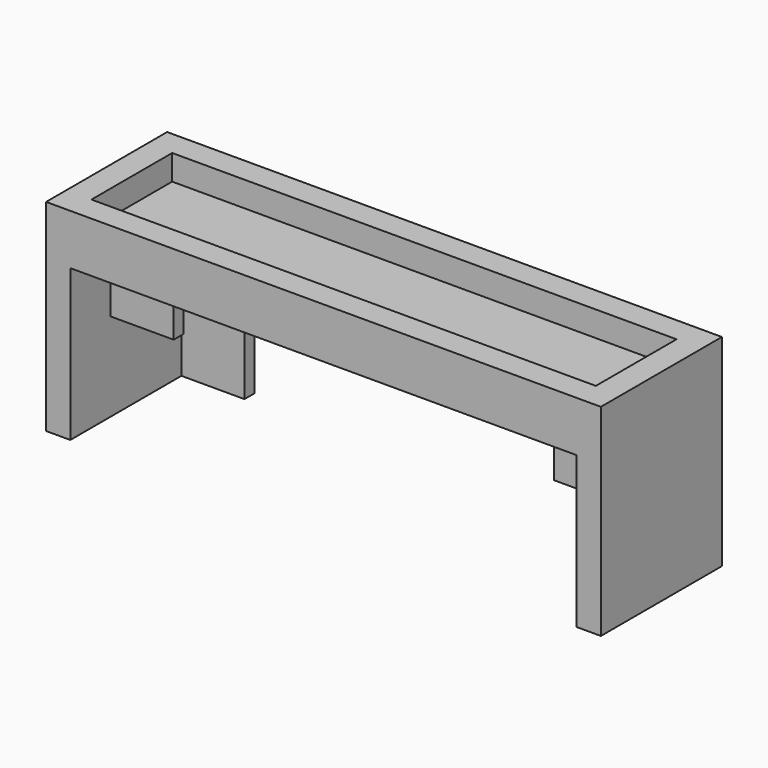
from build123d import *

# Parameters (mm, degrees)
F0_W     = 139.7
F0_H     = 38.1
F1_DEPTH = 6.35
F2_W     = 15.875
F2_H     = 3.1242
F3_DEPTH = 38.1
F4_DEPTH = 15.875
F5_DEPTH = 15.875
F6_W     = 139.7
F6_H     = 38.1
F6_W_2   = 127
F6_H_2   = 25.4
F7_DEPTH = 6.35
F8_R     = 1.5875
F9_DEPTH = 25.4


with BuildPart() as f1:
    # F0 (on Top) → F1 (new body)
    with BuildSketch(Plane.XY):
        with Locations((69.85, 19.05)):
            Rectangle(F0_W, F0_H)
    extrude(amount=F1_DEPTH)

    # F2 (on face) → F3 (join)
    with BuildSketch(Plane(origin=(0, 0, 0), x_dir=(1, 0, 0), z_dir=(0, 0, -1))):
        with Locations((14.0335, -36.5379)):
            Rectangle(F2_W, F2_H)
        Polygon((6.096, 0), (0, 0), (0, -38.1), (6.096, -38.1), (6.096, -34.9758), (6.096, -15.8242), (6.096, -12.7), (6.096, -3.1242), align=None)
        with Locations((125.6665, -36.5379)):
            Rectangle(F2_W, F2_H)
        Polygon((139.7, 0), (133.604, 0), (133.604, -12.7), (133.604, -15.8242), (133.604, -34.9758), (133.604, -38.1), (139.7, -38.1), align=None)
    extrude(amount=F3_DEPTH)

    # F2 (on face) → F4 (join)
    with BuildSketch(Plane(origin=(0, 0, 0), x_dir=(1, 0, 0), z_dir=(0, 0, -1))):
        with Locations((14.0335, -14.2621)):
            Rectangle(F2_W, F2_H)
    extrude(amount=F4_DEPTH)

    # F2 (on face) → F5 (join)
    with BuildSketch(Plane(origin=(0, 0, 0), x_dir=(1, 0, 0), z_dir=(0, 0, -1))):
        with Locations((125.6665, -14.2621)):
            Rectangle(F2_W, F2_H)
    extrude(amount=F5_DEPTH)

    # F6 (on face) → F7 (join)
    with BuildSketch(Plane.XY.offset(6.35)):
        with Locations((69.85, 19.05)):
            Rectangle(F6_W, F6_H)
        with Locations((69.85, 19.05)):
            Rectangle(F6_W_2, F6_H_2, mode=Mode.SUBTRACT)
    extrude(amount=F7_DEPTH)

    # F8 (on face) → F9 (cut)
    with BuildSketch(Plane(origin=(0, 0, 0), x_dir=(1, 0, 0), z_dir=(0, 0, -1))):
        with Locations((41.529, -11.43)):
            Circle(F8_R)
        with Locations((54.8894, -11.43)):
            Circle(F8_R)
        with Locations((81.2292, -11.43)):
            Circle(F8_R)
        with Locations((95.123, -11.43)):
            Circle(F8_R)
    extrude(amount=-F9_DEPTH, mode=Mode.SUBTRACT)


solid = f1.part
